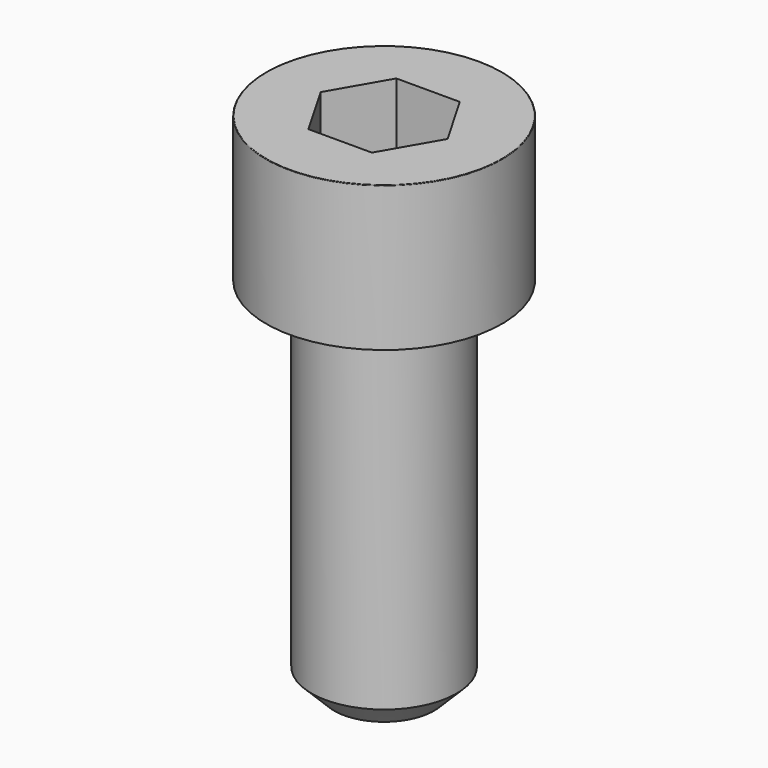
from build123d import *

# Parameters (mm, degrees)
POCKET_DEPTH = 6.06


with BuildPart() as part:
    # Sketch → Revolve (revolve)
    with BuildSketch(Plane.YZ):
        with BuildLine():
            Line((3.999, 0), (6.5, 0))
            Line((6.5, 0), (6.5, 7.97229))
            ThreePointArc((6.5, 7.97229), (6.491884, 7.991884), (6.47229, 8))
            Line((6.47229, 8), (0, 8))
            Line((0, -20), (0, 8))
            Line((2.75, -20), (0, -20))
            Line((4, -18.75), (2.75, -20))
            Line((4, -0.2), (4, -18.75))
            Line((3.999, 0), (4, -0.2))
        make_face()
    revolve(axis=Axis((0, 0, 0), (0, 0, 1)))

    # Sketch001 → Pocket (cut)
    with BuildSketch(Plane.XY.offset(8)):
        Polygon((3.498743, 0), (1.749371, 3.03), (-1.749371, 3.03), (-3.498743, 0), (-1.749371, -3.03), (1.749371, -3.03), align=None)
    extrude(amount=-POCKET_DEPTH, mode=Mode.SUBTRACT)


solid = part.part
